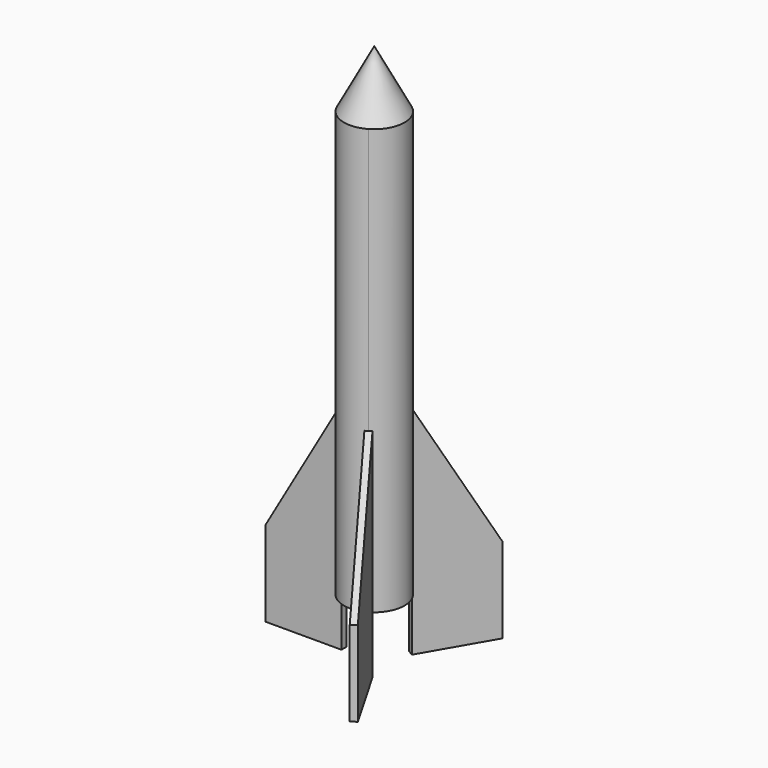
from build123d import *

# Parameters (mm, degrees)
F3_DEPTH = 1.5
F4_COUNT = 3


with BuildPart() as f1:
    # F0 (on Front) → F1 (revolve)
    with BuildSketch(Plane.XZ):
        Polygon((0, 200), (0, 227), (-14.25, 200), (-14.25, 0), (-11.25, 0), (-11.25, 200), align=None)
    revolve(axis=Axis((0, 0, 113.5), (0, 0, 1)))

    # F2 (on Front) → F3 (join, symmetric)
    with BuildSketch(Plane.XZ):
        Polygon((-14.25, 75), (-50, 13.0791836294), (-50, -26.9208163706), (-14.25, -26.9208163706), (-14.25, -16.9208163706), (-14.25, 0), align=None)
    extrude(amount=F3_DEPTH, both=True)

    # F4: F1 ×3 about axis
    f4_axis = Axis((0, 0, 200), (0, 0, -1))


with BuildPart() as f1_1:
    add(f1.part)
    for i in range(1, F4_COUNT):
        add(f1.part.rotate(f4_axis, i * 360 / F4_COUNT))


solid = f1_1.part
